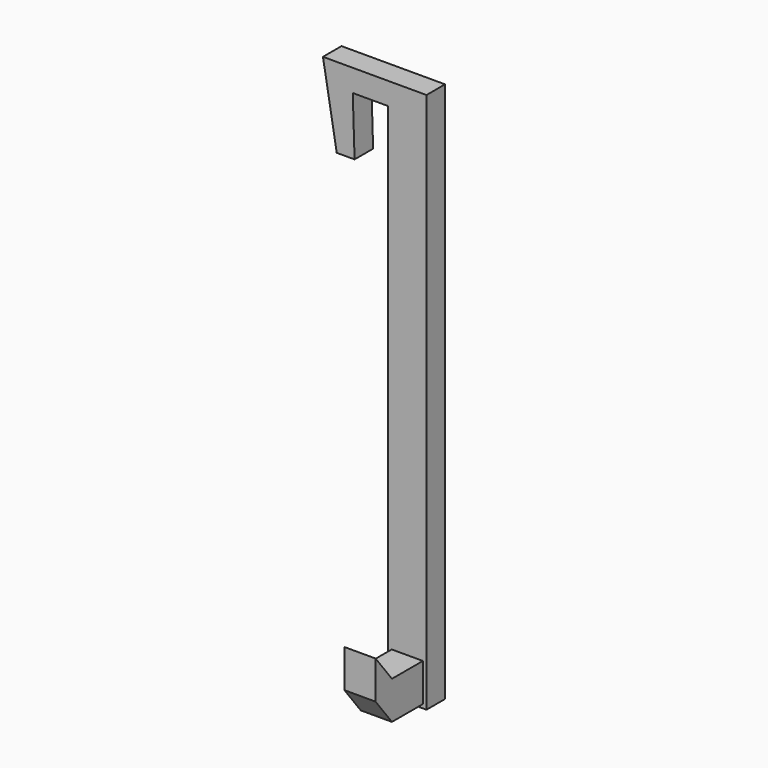
from build123d import *

# Parameters (mm, degrees)
F1_DEPTH = 3
F2_W     = 4.032329
F2_H     = 4.912953
F3_DEPTH = 5
F4_W     = 4.032329
F4_H     = 4.912953


with BuildPart() as f1:
    # F0 (on Front) → F1 (new body)
    with BuildSketch(Plane.XZ):
        Polygon((1.371463, 67.128956), (1.371463, 0), (6.371463, 0), (6.371463, 70), (1.371463, 70), (-7.018532, 70), (-5.238707, 59.643164), (-2.930099, 59.643164), (-3.16445, 67.128956), align=None)
    extrude(amount=F1_DEPTH)

    # F2 (on face) → F3 (join)
    with BuildSketch(Plane.XZ.offset(3)):
        with Locations((3.889312, 2.950882)):
            Rectangle(F2_W, F2_H)
    extrude(amount=F3_DEPTH)

    # F6: sweep along a path in F5
    with BuildLine(Plane.YZ.offset(5.905477)) as f6_path:
        Line((-8, 5.407359), (-10.649814, 8.793468))
    # F4 (on face) → F6 (sweep)
    with BuildSketch(Plane.XZ.offset(8)):
        with Locations((3.889312, 2.950882)):
            Rectangle(F4_W, F4_H)
    sweep(path=f6_path.line)


solid = f1.part
